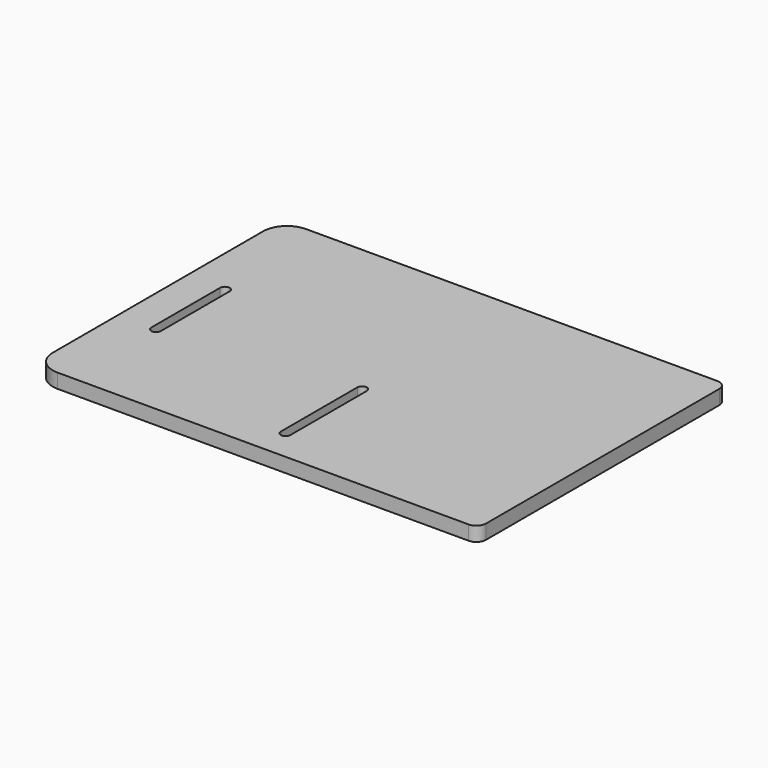
from build123d import *

# Parameters (mm, degrees)
F0_W     = 93
F0_H     = 65
F1_DEPTH = 3
F2_R     = 5
F3_R     = 2


with BuildPart() as f1:
    # F0 (on Top) → F1 (new body)
    with BuildSketch(Plane.XY):
        Rectangle(F0_W, F0_H)
        with BuildLine():
            Line((-39.5, -10.5), (-39.5, 7.5))
            ThreePointArc((-39.5, 7.5), (-38.5, 8.5), (-37.5, 7.5))
            Line((-37.5, 7.5), (-37.5, -10.5))
            ThreePointArc((-37.5, -10.5), (-38.5, -11.5), (-39.5, -10.5))
        make_face(mode=Mode.SUBTRACT)
        with BuildLine():
            Line((2, -6), (2, -26))
            ThreePointArc((2, -26), (1, -27), (0, -26))
            Line((0, -26), (0, -6))
            ThreePointArc((0, -6), (1, -5), (2, -6))
        make_face(mode=Mode.SUBTRACT)
    extrude(amount=F1_DEPTH)

    # F2
    f2_edges = [f1.edges().sort_by_distance(p)[0] for p in [
        (-46.5, 32.5, 1.5),
        (-46.5, -32.5, 1.5),
    ]]
    fillet(f2_edges, radius=F2_R)

    # F3
    f3_edges = [f1.edges().sort_by_distance(p)[0] for p in [
        (46.5, -32.5, 1.5),
        (46.5, 32.5, 1.5),
    ]]
    fillet(f3_edges, radius=F3_R)


solid = f1.part
